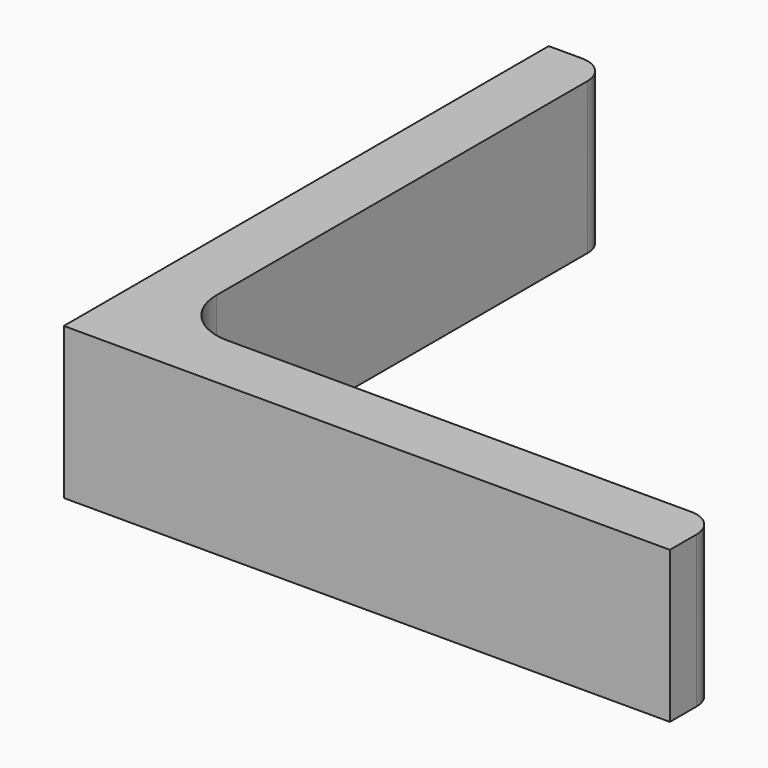
from build123d import *

# Parameters (mm, degrees)
EXTRUDE_DEPTH = 50


with BuildPart() as part:
    # Sketch → Extrude (new body)
    with BuildSketch(Plane.XY):
        with BuildLine():
            Line((0, 0), (200, 0))
            Line((200, 0), (200, 11))
            ThreePointArc((200, 11), (197.363961, 17.363961), (191, 20))
            Line((191, 20), (38, 20))
            ThreePointArc((20, 38), (25.272078, 25.272078), (38, 20))
            Line((20, 191), (20, 38))
            ThreePointArc((20, 191), (17.363961, 197.363961), (11, 200))
            Line((0, 200), (11, 200))
            Line((0, 0), (0, 200))
        make_face()
    extrude(amount=EXTRUDE_DEPTH)


solid = part.part
